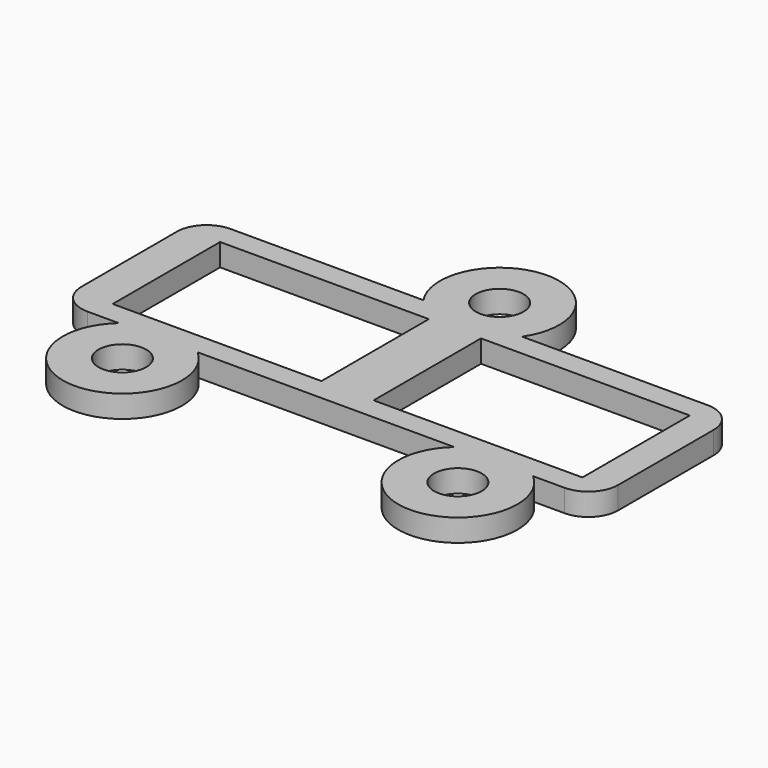
from build123d import *

# Parameters (mm, degrees)
CYLINDER081_R     = 1.6
CYLINDER081_DEPTH = 1.5
CYLINDER082_R     = 4
CYLINDER082_DEPTH = 1.5
CYLINDER083_R     = 1.6
CYLINDER083_DEPTH = 1.5
CYLINDER084_R     = 4
CYLINDER084_DEPTH = 1.5
BOX207_W          = 14
BOX207_H          = 9
BOX207_DEPTH      = 1.5
BOX206_W          = 14
BOX206_H          = 9
BOX206_DEPTH      = 1.5
BOX205_W          = 36
BOX205_H          = 12
BOX205_DEPTH      = 1.5
FILLET050_R       = 2
CYLINDER080_R     = 1.6
CYLINDER080_DEPTH = 1.5
CYLINDER079_R     = 4
CYLINDER079_DEPTH = 1.5


with BuildPart() as cylinder162:
    # Cylinder081 → Cylinder081 (new body)
    with BuildSketch(Plane(origin=(70.25, 15, 8.3), x_dir=(1, 0, 0), z_dir=(0, 0, 1))):
        Circle(CYLINDER081_R)
    extrude(amount=CYLINDER081_DEPTH)


with BuildPart() as cut104:
    # Cylinder082 → Cylinder082 (new body)
    with BuildSketch(Plane(origin=(70.25, 15, 8.3), x_dir=(1, 0, 0), z_dir=(0, 0, 1))):
        Circle(CYLINDER082_R)
    extrude(amount=CYLINDER082_DEPTH)

    # Cut104: cut Cylinder162
    add(cylinder162.part, mode=Mode.SUBTRACT)


with BuildPart() as cylinder164:
    # Cylinder083 → Cylinder083 (new body)
    with BuildSketch(Plane(origin=(59.25, 32.25, 8.3), x_dir=(1, 0, 0), z_dir=(0, 0, 1))):
        Circle(CYLINDER083_R)
    extrude(amount=CYLINDER083_DEPTH)


with BuildPart() as cut105:
    # Cylinder084 → Cylinder084 (new body)
    with BuildSketch(Plane(origin=(59.25, 32.25, 8.3), x_dir=(1, 0, 0), z_dir=(0, 0, 1))):
        Circle(CYLINDER084_R)
    extrude(amount=CYLINDER084_DEPTH)

    # Cut105: cut Cylinder164
    add(cylinder164.part, mode=Mode.SUBTRACT)


with BuildPart() as cube196:
    # Box207 → Box207 (new body)
    with BuildSketch(Plane(origin=(61, 19.5, 8.3), x_dir=(1, 0, 0), z_dir=(0, 0, 1))):
        with Locations((7, 4.5)):
            Rectangle(BOX207_W, BOX207_H)
    extrude(amount=BOX207_DEPTH)


with BuildPart() as cube195:
    # Box206 → Box206 (new body)
    with BuildSketch(Plane(origin=(43.5, 19.5, 8.3), x_dir=(1, 0, 0), z_dir=(0, 0, 1))):
        with Locations((7, 4.5)):
            Rectangle(BOX206_W, BOX206_H)
    extrude(amount=BOX206_DEPTH)


with BuildPart() as fillet050:
    # Box205 → Box205 (new body)
    with BuildSketch(Plane(origin=(41, 18, 8.3), x_dir=(1, 0, 0), z_dir=(0, 0, 1))):
        with Locations((18, 6)):
            Rectangle(BOX205_W, BOX205_H)
    extrude(amount=BOX205_DEPTH)

    # Cut106: cut Cube195
    add(cube195.part, mode=Mode.SUBTRACT)

    # Cut107: cut Cube196
    add(cube196.part, mode=Mode.SUBTRACT)

    # Fillet050
    fillet050_edges = [fillet050.edges().sort_by_distance(p)[0] for p in [
        (41, 18, 9.05),
        (41, 30, 9.05),
        (77, 18, 9.05),
        (77, 30, 9.05),
    ]]
    fillet(fillet050_edges, radius=FILLET050_R)


with BuildPart() as cylinder161:
    # Cylinder080 → Cylinder080 (new body)
    with BuildSketch(Plane(origin=(47.75, 15, 8.3), x_dir=(1, 0, 0), z_dir=(0, 0, 1))):
        Circle(CYLINDER080_R)
    extrude(amount=CYLINDER080_DEPTH)


with BuildPart() as fusion064:
    # Cylinder079 → Cylinder079 (new body)
    with BuildSketch(Plane(origin=(47.75, 15, 8.3), x_dir=(1, 0, 0), z_dir=(0, 0, 1))):
        Circle(CYLINDER079_R)
    extrude(amount=CYLINDER079_DEPTH)

    # Cut103: cut Cylinder161
    add(cylinder161.part, mode=Mode.SUBTRACT)

    # Fusion064: union Cut104, Cut105, Fillet050
    add(cut104.part)
    add(cut105.part)
    add(fillet050.part)


solid = fusion064.part
